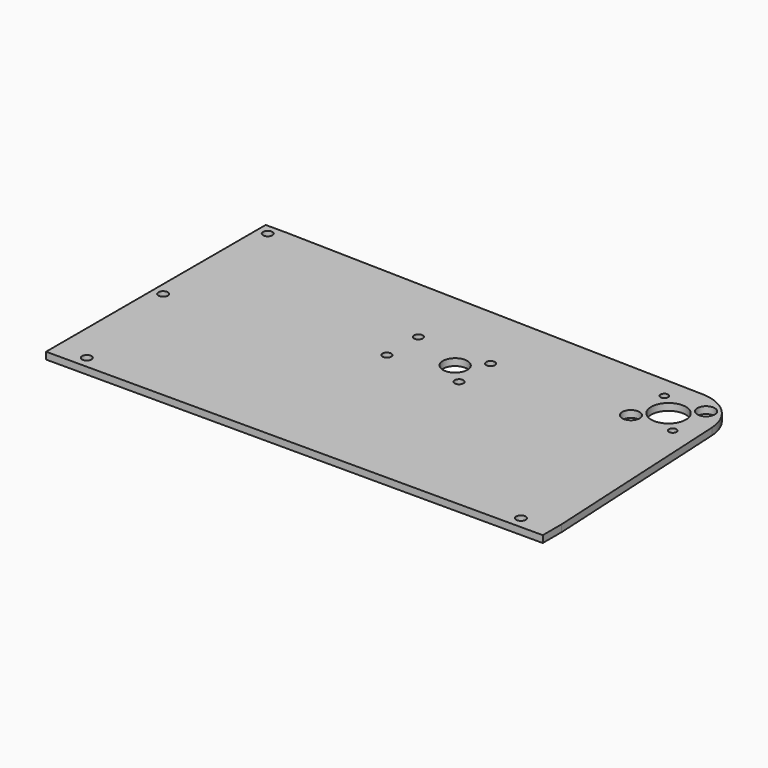
from build123d import *

# Parameters (mm, degrees)
F0_R     = 2.15265
F0_R_2   = 2
F0_R_3   = 5.587505
F0_R_4   = 3.96875
F0_R_5   = 1.7272
F0_R_6   = 7.9375
F1_DEPTH = 3.175


with BuildPart() as f1:
    # F0 (on Top) → F1 (new body)
    with BuildSketch(Plane.XY):
        with BuildLine():
            Line((0.467924, 19.044252), (-193.597083, 23.8125))
            Line((-193.597083, 23.8125), (-203.122083, 23.8125))
            Line((-203.122083, 23.8125), (-203.122083, -101.6))
            Line((-203.122083, -101.6), (23.8125, -101.6))
            Line((23.8125, -101.6), (23.8125, -90.805))
            Line((23.8125, -90.805), (19.024136, 0.992343))
            ThreePointArc((19.024136, 0.992343), (13.28356, 13.654653), (0.467924, 19.044252))
        make_face()
        with Locations((-188.834583, -96.2025)):
            Circle(F0_R, mode=Mode.SUBTRACT)
        with Locations((-198.359583, -40.653914)):
            Circle(F0_R, mode=Mode.SUBTRACT)
        with Locations((9.525, -96.2025)):
            Circle(F0_R, mode=Mode.SUBTRACT)
        with Locations((-106.532132, -27.700083)):
            Circle(F0_R_2, mode=Mode.SUBTRACT)
        with Locations((-106.532132, -9.700083)):
            Circle(F0_R_2, mode=Mode.SUBTRACT)
        with Locations((-198.359583, 19.05)):
            Circle(F0_R, mode=Mode.SUBTRACT)
        with Locations((-73.532132, -27.700083)):
            Circle(F0_R_2, mode=Mode.SUBTRACT)
        with Locations((-82.532132, -18.700083)):
            Circle(F0_R_3, mode=Mode.SUBTRACT)
        with Locations((-73.532132, -9.700083)):
            Circle(F0_R_2, mode=Mode.SUBTRACT)
        with Locations((-9.541522, -9.541522)):
            Circle(F0_R_4, mode=Mode.SUBTRACT)
        with Locations((9.541522, -9.541522)):
            Circle(F0_R_5, mode=Mode.SUBTRACT)
        Circle(F0_R_6, mode=Mode.SUBTRACT)
        with Locations((-9.541522, 9.541522)):
            Circle(F0_R_5, mode=Mode.SUBTRACT)
        with Locations((9.541522, 9.541522)):
            Circle(F0_R_4, mode=Mode.SUBTRACT)
    extrude(amount=F1_DEPTH)


solid = f1.part
